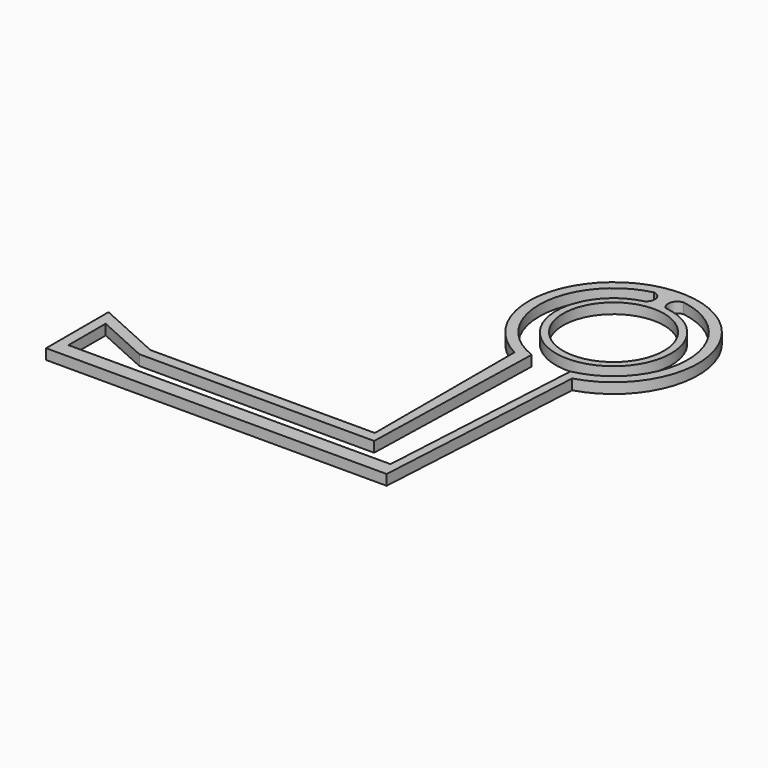
from build123d import *

# Parameters (mm, degrees)
F0_R     = 9.844243
F1_DEPTH = 2.032


with BuildPart() as f1:
    # F0 (on Top) → F1 (new body)
    with BuildSketch(Plane.XY):
        with BuildLine():
            Line((31.089598, -31.546801), (33.463796, 10.718508))
            ThreePointArc((33.463796, 10.718508), (30.487972, 43.003672), (21.229253, 11.931764))
            Line((21.229253, 11.931764), (21.229253, -22.098001))
            Line((21.229253, -22.098001), (-22.5552, -22.098001))
            Line((-22.5552, -22.098001), (-35.356801, -16.306801))
            Line((-35.356801, -16.306801), (-35.356801, -31.546801))
            Line((-35.356801, -31.546801), (31.089598, -31.546801))
        make_face()
        with BuildLine():
            ThreePointArc((31.064666, 40.924122), (43.372563, 26.956095), (31.817121, 12.359456))
            Line((31.817121, 12.359456), (29.51405, -28.639663))
            Line((29.51405, -28.639663), (-33.319528, -28.639663))
            Line((-33.319528, -28.639663), (-33.319528, -19.561942))
            Line((-33.319528, -19.561942), (-23.010679, -24.22547))
            Line((-23.010679, -24.22547), (22.78487, -24.22547))
            Line((22.78487, -24.22547), (23.776841, 12.973253))
            ThreePointArc((23.776841, 12.973253), (14.367403, 27.469334), (25.49015, 40.696518))
            ThreePointArc((25.49015, 40.696518), (26.964425, 39.350103), (26.232098, 37.49268))
            ThreePointArc((26.232098, 37.49268), (29.532357, 15.363606), (30.158721, 37.728653))
            ThreePointArc((30.158721, 37.728653), (29.518628, 39.636281), (31.064666, 40.924122))
        make_face(mode=Mode.SUBTRACT)
        with Locations((28.858677, 26.573768)):
            Circle(F0_R, mode=Mode.SUBTRACT)
    extrude(amount=F1_DEPTH)


solid = f1.part
